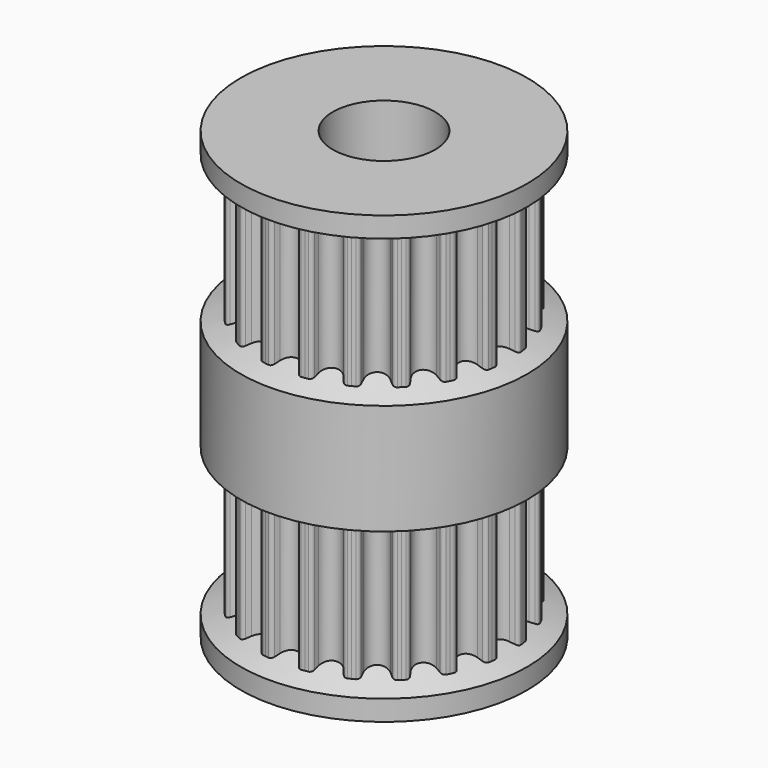
from build123d import *

# Parameters (mm, degrees)
F3_DEPTH  = 10.5
F4_COUNT  = 20
F7_R      = 2.5
F8_DEPTH  = 50
F9_R      = 1.25
F10_DEPTH = 25
F11_R     = 1.25
F12_DEPTH = 25


with BuildPart() as f3:
    # F2 (on Top) → F3 (new body, symmetric)
    with BuildSketch(Plane.XY):
        with BuildLine():
            Line((0.8388325323, 5.2961801716), (0.9561583811, 6.0369464271))
            ThreePointArc((0.9561583811, 6.0369464271), (0.8769247137, 6.0489638832), (0.7975402939, 6.0599414595))
            ThreePointArc((0.7975402939, 6.0599414595), (0.673583382, 6.0329713178), (0.5951684067, 5.9332527328))
            ThreePointArc((0.5951684067, 5.9332527328), (0.5578349377, 5.8252126761), (0.5180414063, 5.7180543045))
            ThreePointArc((0.5180414063, 5.7180543045), (0.3142454474, 5.4597320978), (0, 5.3621977237))
            ThreePointArc((0, 5.3621977237), (-0.3142454474, 5.4597320978), (-0.5180414063, 5.7180543045))
            ThreePointArc((-0.5180414063, 5.7180543045), (-0.5578349377, 5.8252126761), (-0.5951684067, 5.9332527328))
            ThreePointArc((-0.5951684067, 5.9332527328), (-0.673583382, 6.0329713178), (-0.7975402939, 6.0599414595))
            ThreePointArc((-0.7975402939, 6.0599414595), (-0.8769247137, 6.0489638832), (-0.9561583811, 6.0369464271))
            Line((-0.9561583811, 6.0369464271), (-0.8388325323, 5.2961801716))
            Line((-0.8388325323, 5.2961801716), (0, 0))
            Line((0, 0), (0.8388325323, 5.2961801716))
        make_face()
        with BuildLine():
            Line((0.8388325323, 5.2961801716), (0.9561583811, 6.0369464271))
            ThreePointArc((0.9561583811, 6.0369464271), (0.8769247137, 6.0489638832), (0.7975402939, 6.0599414595))
            ThreePointArc((0.7975402939, 6.0599414595), (0.673583382, 6.0329713178), (0.5951684067, 5.9332527328))
            ThreePointArc((0.5951684067, 5.9332527328), (0.5578349377, 5.8252126761), (0.5180414063, 5.7180543045))
            ThreePointArc((0.5180414063, 5.7180543045), (0.3142454474, 5.4597320978), (0, 5.3621977237))
            ThreePointArc((0, 5.3621977237), (-0.3142454474, 5.4597320978), (-0.5180414063, 5.7180543045))
            ThreePointArc((-0.5180414063, 5.7180543045), (-0.5578349377, 5.8252126761), (-0.5951684067, 5.9332527328))
            ThreePointArc((-0.5951684067, 5.9332527328), (-0.673583382, 6.0329713178), (-0.7975402939, 6.0599414595))
            ThreePointArc((-0.7975402939, 6.0599414595), (-0.8769247137, 6.0489638832), (-0.9561583811, 6.0369464271))
            Line((-0.9561583811, 6.0369464271), (-0.8388325323, 5.2961801716))
            Line((-0.8388325323, 5.2961801716), (0, 0))
            Line((0, 0), (0.8388325323, 5.2961801716))
        make_face()
        with BuildLine():
            Line((0.8388325323, 5.2961801716), (0.9561583811, 6.0369464271))
            ThreePointArc((0.9561583811, 6.0369464271), (0.8769247137, 6.0489638832), (0.7975402939, 6.0599414595))
            ThreePointArc((0.7975402939, 6.0599414595), (0.673583382, 6.0329713178), (0.5951684067, 5.9332527328))
            ThreePointArc((0.5951684067, 5.9332527328), (0.5578349377, 5.8252126761), (0.5180414063, 5.7180543045))
            ThreePointArc((0.5180414063, 5.7180543045), (0.3142454474, 5.4597320978), (0, 5.3621977237))
            ThreePointArc((0, 5.3621977237), (-0.3142454474, 5.4597320978), (-0.5180414063, 5.7180543045))
            ThreePointArc((-0.5180414063, 5.7180543045), (-0.5578349377, 5.8252126761), (-0.5951684067, 5.9332527328))
            ThreePointArc((-0.5951684067, 5.9332527328), (-0.673583382, 6.0329713178), (-0.7975402939, 6.0599414595))
            ThreePointArc((-0.7975402939, 6.0599414595), (-0.8769247137, 6.0489638832), (-0.9561583811, 6.0369464271))
            Line((-0.9561583811, 6.0369464271), (-0.8388325323, 5.2961801716))
            Line((-0.8388325323, 5.2961801716), (0, 0))
            Line((0, 0), (0.8388325323, 5.2961801716))
        make_face()
    extrude(amount=F3_DEPTH, both=True)

    # F4: F3 ×20 about axis
    f4_axis = Axis((0, 0, 0), (0, 0, -1))


with BuildPart() as f3_1:
    add(f3.part)
    for i in range(1, F4_COUNT):
        add(f3.part.rotate(f4_axis, i * 360 / F4_COUNT))

    # F5 (on Front) → F6 (revolve)
    with BuildSketch(Plane.XZ):
        Polygon((7.002817496, 10.5), (0, 10.5), (0, 8.9028632371), (5.3621977237, 8.9028632371), (7.002817496, 9.5), align=None)
        Polygon((5.3621977237, 2.9028632371), (0, 2.9028632371), (0, -3.6971367629), (5.3621977237, -3.6971367629), (7.002817496, -3.1), (7.002817496, 2.3057264742), align=None)
        Polygon((5.3621977237, -9.6971367629), (0, -9.6971367629), (0, -11.2942735258), (7.002817496, -11.2942735258), (7.002817496, -10.2942735258), align=None)
    revolve(axis=Axis((0, 0, -0.3971367629), (0, 0, 1)))

    # F7 (on Top) → F8 (cut, symmetric)
    with BuildSketch(Plane.XY):
        Circle(F7_R)
    extrude(amount=F8_DEPTH, both=True, mode=Mode.SUBTRACT)

    # F9 (on Front) → F10 (cut)
    with BuildSketch(Plane.XZ):
        Circle(F9_R)
    extrude(amount=-F10_DEPTH, mode=Mode.SUBTRACT)

    # F11 (on Right) → F12 (cut)
    with BuildSketch(Plane.YZ):
        Circle(F11_R)
    extrude(amount=-F12_DEPTH, mode=Mode.SUBTRACT)


solid = f3_1.part
